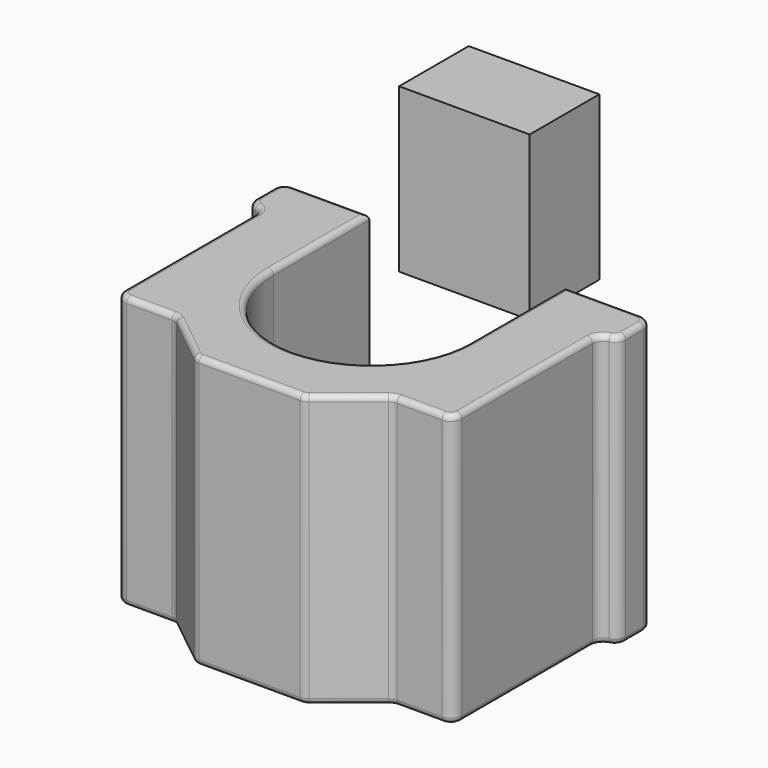
from build123d import *

# Parameters (mm, degrees)
F0_W     = 12
F0_H     = 8
F1_DEPTH = 15
F3_DEPTH = 25
F5_DEPTH = 25.001
F6_R     = 1
F7_R     = 0.5


with BuildPart() as f1:
    # F0 (on Top) → F1 (new body)
    with BuildSketch(Plane.XY):
        with Locations((-42.7278246284, 35.8294376655)):
            Rectangle(F0_W, F0_H)
    extrude(amount=F1_DEPTH)


with BuildPart() as f3:
    # F2 (on Top) → F3 (new body)
    with BuildSketch(Plane.XY):
        with BuildLine():
            Line((0, -25), (0, 0))
            Line((0, 0), (-8, 0))
            Line((-8, 0), (-8, -11))
            ThreePointArc((-8, -11), (-17, -20), (-26, -11))
            Line((-26, -11), (-26, 0))
            Line((-26, 0), (-34, 0))
            Line((-34, 0), (-34, -25))
            Line((-34, -25), (0, -25))
        make_face()
    extrude(amount=F3_DEPTH)

    # F4 (on face) → F5 (cut, through all)
    with BuildSketch(Plane.XY.offset(25)):
        with BuildLine():
            Line((-27, -21), (-31.5, -21))
            ThreePointArc((-31.5, -21), (-32.2071067812, -20.7071067812), (-32.5, -20))
            Line((-32.5, -20), (-32.5, -5))
            ThreePointArc((-32.5, -5), (-32.7928932188, -4.2928932188), (-33.5, -4))
            Line((-33.5, -4), (-34, -4))
            Line((-34, -4), (-34, -25))
            Line((-34, -25), (-22, -25))
            Line((-22, -25), (-27, -21))
        make_face()
        with BuildLine():
            Line((-7, -21), (-12, -25))
            Line((-12, -25), (0, -25))
            Line((0, -25), (0, -4))
            Line((0, -4), (-0.5, -4))
            ThreePointArc((-0.5, -4), (-1.2071067812, -4.2928932188), (-1.5, -5))
            Line((-1.5, -5), (-1.5, -20))
            ThreePointArc((-1.5, -20), (-1.7928932188, -20.7071067812), (-2.5, -21))
            Line((-2.5, -21), (-7, -21))
        make_face()
    extrude(amount=-F5_DEPTH, mode=Mode.SUBTRACT)

    # F6
    f6_edges = [f3.edges().sort_by_distance(p)[0] for p in [
        (-34, -4, 12.5),
        (0, -4, 12.5),
        (-12, -25, 12.5),
        (-7, -21, 12.5),
        (-27, -21, 12.5),
        (-22, -25, 12.5),
        (0, 0, 12.5),
        (-34, 0, 12.5),
    ]]
    fillet(f6_edges, radius=F6_R)

    # F7
    f7_edges = [f3.edges().sort_by_distance(p)[0] for p in [
        (-1.290569, -4.387628, 25),
        (-0.209431, -3.675881, 25),
        (-1.5, -12.5, 25),
        (0, -2.031754, 25),
        (-1.792893, -20.707107, 25),
        (-0.292893, -0.292893, 25),
        (-4.574609, -21, 25),
        (-4.5, 0, 25),
        (-6.980226, -21.056372, 25),
        (-8, -5.5, 25),
        (-9.5, -23, 25),
        (-17, -20, 25),
        (-12.019774, -24.943628, 25),
        (-26, -5.5, 25),
        (-17, -25, 25),
        (-29.5, 0, 25),
        (-21.980226, -24.943628, 25),
        (-33.707107, -0.292893, 25),
        (-24.5, -23, 25),
        (-34, -2.031754, 25),
        (-27.019774, -21.056372, 25),
        (-33.790569, -3.675881, 25),
        (-29.425391, -21, 25),
        (-32.709431, -4.387628, 25),
        (-32.207107, -20.707107, 25),
        (-32.5, -12.5, 25),
        (-1.290569, -4.387628, 0),
        (-0.209431, -3.675881, 0),
        (-1.5, -12.5, 0),
        (0, -2.031754, 0),
        (-1.792893, -20.707107, 0),
        (-0.292893, -0.292893, 0),
        (-4.574609, -21, 0),
        (-4.5, 0, 0),
        (-6.980226, -21.056372, 0),
        (-8, -5.5, 0),
        (-9.5, -23, 0),
        (-17, -20, 0),
        (-12.019774, -24.943628, 0),
        (-26, -5.5, 0),
        (-17, -25, 0),
        (-29.5, 0, 0),
        (-21.980226, -24.943628, 0),
        (-33.707107, -0.292893, 0),
        (-24.5, -23, 0),
        (-34, -2.031754, 0),
        (-27.019774, -21.056372, 0),
        (-33.790569, -3.675881, 0),
        (-29.425391, -21, 0),
        (-32.709431, -4.387628, 0),
        (-32.207107, -20.707107, 0),
        (-32.5, -12.5, 0),
    ]]
    fillet(f7_edges, radius=F7_R)


solid = Compound([f1.part, f3.part])
